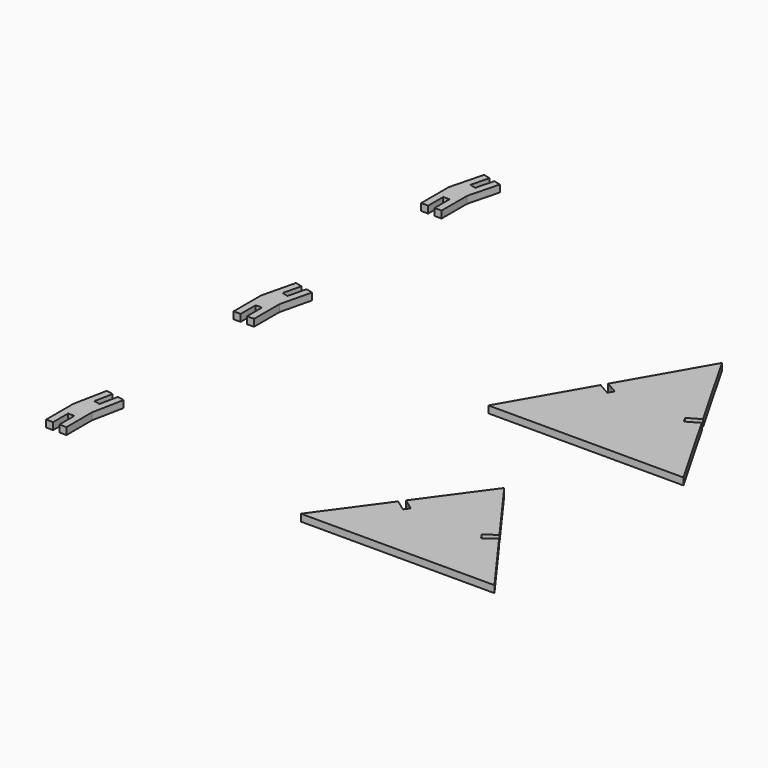
from build123d import *

# Parameters (mm, degrees)
F2_DEPTH  = 3
F4_DEPTH  = 3
F6_DEPTH  = 3
F8_DEPTH  = 3
F10_DEPTH = 3


with BuildPart() as f2:
    # F1 (on Top) → F2 (new body)
    with BuildSketch(Plane.XY):
        Polygon((19.968103654, 34.8310246878), (0, 0), (83.137789281, 0), (63.3188913913, 34.5707601304), (58.1136002415, 31.5866448435), (56.7707483624, 33.9290258609), (61.9760395122, 36.9131411478), (41.5688946405, 72.509999976), (21.3109555331, 37.1734057053), (26.5162466829, 34.1892904184), (25.1733948038, 31.846909401), align=None)
    extrude(amount=F2_DEPTH)


with BuildPart() as f4:
    # F3 (on Top) → F4 (new body)
    with BuildSketch(Plane.XY):
        Polygon((19.7521299169, -72.8135254916), (0, -100), (82.5352311814, -100), (62.7831012645, -72.8135254916), (57.9289992982, -76.3402370053), (56.3419791171, -74.1558911205), (61.1960810833, -70.6291796067), (41.2676155907, -43.2), (21.3391500981, -70.6291796068), (26.1932520644, -74.1558911205), (24.6062318832, -76.3402370053), align=None)
    extrude(amount=F4_DEPTH)


with BuildPart() as f6:
    # F5 (on Top) → F6 (new body)
    with BuildSketch(Plane.XY):
        Polygon((-103, 0), (-100, 0), (-100, 13.642271658), (-96.7921274148, 26.9020276688), (-99.7080104166, 27.6074540081), (-101.5891473214, 19.8317660035), (-104.2134420229, 20.4666497088), (-102.3323051181, 28.2423377135), (-105.2481881199, 28.9477640528), (-108.7, 14.6796838499), (-108.7, 0), (-105.7, 0), (-105.7, 8), (-103, 8), align=None)
    extrude(amount=F6_DEPTH)


with BuildPart() as f8:
    # F7 (on Top) → F8 (new body)
    with BuildSketch(Plane.XY):
        Polygon((-103, -100), (-100, -100), (-100, -86.2967959619), (-97.314910005, -72.8592332131), (-100.2567539806, -72.2713947803), (-101.8243231345, -80.1163120487), (-104.4719827126, -79.5872574593), (-102.9044135587, -71.7423401909), (-105.8462575343, -71.1545017582), (-108.7, -85.4360876724), (-108.7, -100), (-105.7, -100), (-105.7, -92), (-103, -92), align=None)
    extrude(amount=F8_DEPTH)


with BuildPart() as f10:
    # F9 (on Top) → F10 (new body)
    with BuildSketch(Plane.XY):
        Polygon((-103, 100), (-100, 100), (-100, 113.6210118647), (-96.6125920963, 126.8140945943), (-99.5183415797, 127.5601642558), (-101.507860677, 119.8114989668), (-104.1230352121, 120.4829616621), (-102.1335161147, 128.2316269511), (-105.0392655981, 128.9776966126), (-108.7, 114.7200774571), (-108.7, 100), (-105.7, 100), (-105.7, 108), (-103, 108), align=None)
    extrude(amount=F10_DEPTH)


solid = Compound([f2.part, f4.part, f6.part, f8.part, f10.part])
